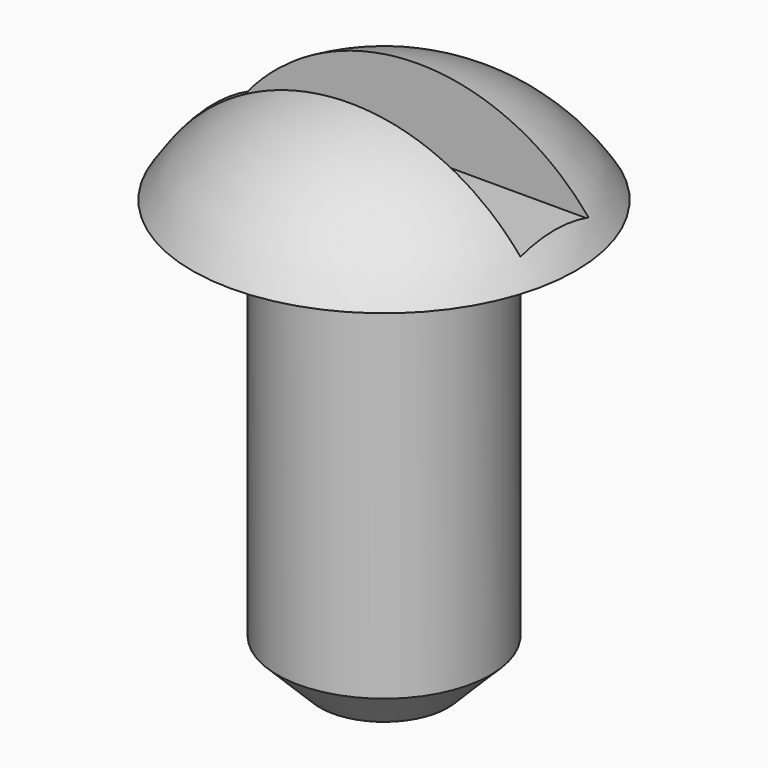
from build123d import *

# Parameters (mm, degrees)
F2_SIZE  = 1.27
F4_W     = 10.16
F4_H     = 2.54
F5_DEPTH = 25.4


with BuildPart() as f1:
    # F0 (on Front) → F1 (revolve)
    with BuildSketch(Plane.XZ):
        with BuildLine():
            Line((0, 15.875), (0, 0))
            Line((0, 0), (3.175, 0))
            Line((3.175, 0), (3.175, 12.7))
            Line((3.175, 12.7), (5.715, 12.7))
            ThreePointArc((5.715, 12.7), (3.2693, 15.02874), (0, 15.875))
        make_face()
    revolve(axis=Axis((0, 0, 7.9375), (0, 0, -1)))

    # F2
    f2_edges = [f1.edges().sort_by_distance(p)[0] for p in [
        (-3.175, 0, 0),
    ]]
    chamfer(f2_edges, length=F2_SIZE)

    # F4 (on offset) → F5 (cut)
    with BuildSketch(Plane(origin=(0, 0, 13.335), x_dir=(1, 0, 0), z_dir=(0, 0, -1))):
        Rectangle(F4_W, F4_H)
    extrude(amount=-F5_DEPTH, mode=Mode.SUBTRACT)


solid = f1.part
